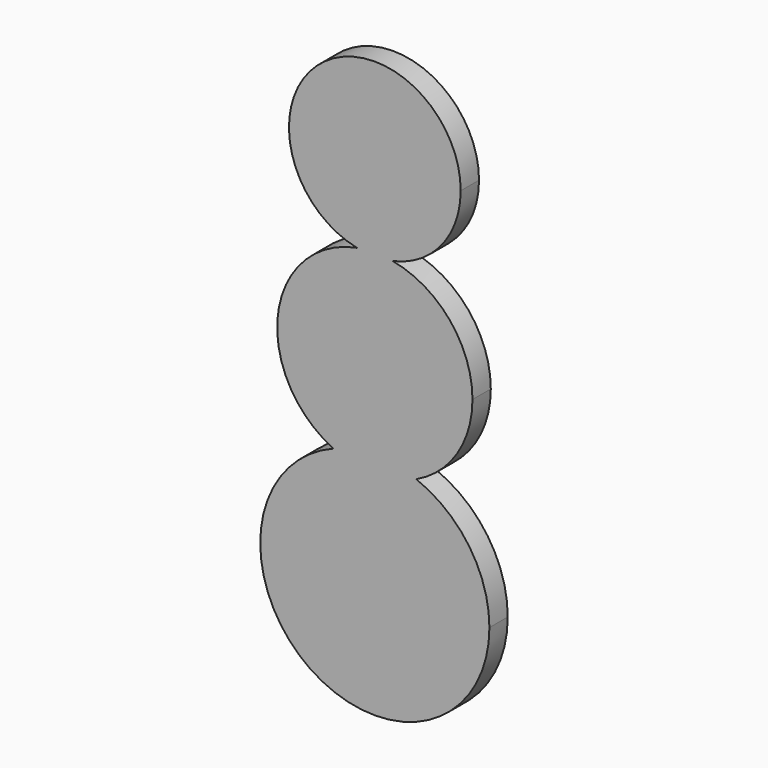
from build123d import *

# Parameters (mm, degrees)
F1_DEPTH = 5.08


with BuildPart() as f1:
    # F0 (on Front) → F1 (new body)
    with BuildSketch(Plane.XZ):
        with BuildLine():
            ThreePointArc((-9.180228084, -12.2985621813), (-14.352390161, -56.9378964015), (25.4, -35.9815394503))
            ThreePointArc((25.4, -35.9815394503), (20.9563569512, -21.6291492893), (9.180228084, -12.2985621813))
            ThreePointArc((9.180228084, -12.2985621813), (0, -14.3420370796), (-9.180228084, -12.2985621813))
        make_face()
        with BuildLine():
            ThreePointArc((-9.180228084, -12.2985621813), (0, -14.3420370796), (9.180228084, -12.2985621813))
            ThreePointArc((9.180228084, -12.2985621813), (0, -10.5815394503), (-9.180228084, -12.2985621813))
        make_face()
        with BuildLine():
            ThreePointArc((-9.180228084, -12.2985621813), (0, -10.5815394503), (9.180228084, -12.2985621813))
            ThreePointArc((9.180228084, -12.2985621813), (18.2631892489, -4.3123104133), (21.6426385777, 7.3006014981))
            ThreePointArc((21.6426385777, 7.3006014981), (16.6450153624, 21.1334344759), (3.9602042013, 28.5778331622))
            ThreePointArc((3.9602042013, 28.5778331622), (0, 28.1612500197), (-3.9602042013, 28.5778331622))
            ThreePointArc((-3.9602042013, 28.5778331622), (-21.468294395, 10.0421595176), (-9.180228084, -12.2985621813))
        make_face()
        with BuildLine():
            ThreePointArc((19.0319256978, 47.1931757175), (-11.9758900225, 61.9848035501), (-3.9602042013, 28.5778331622))
            ThreePointArc((-3.9602042013, 28.5778331622), (0, 28.9432400758), (3.9602042013, 28.5778331622))
            ThreePointArc((3.9602042013, 28.5778331622), (14.7916278326, 35.2172856951), (19.0319256978, 47.1931757175))
        make_face()
        with BuildLine():
            ThreePointArc((3.9602042013, 28.5778331622), (0, 28.9432400758), (-3.9602042013, 28.5778331622))
            ThreePointArc((-3.9602042013, 28.5778331622), (0, 28.1612500197), (3.9602042013, 28.5778331622))
        make_face()
    extrude(amount=F1_DEPTH)


solid = f1.part
